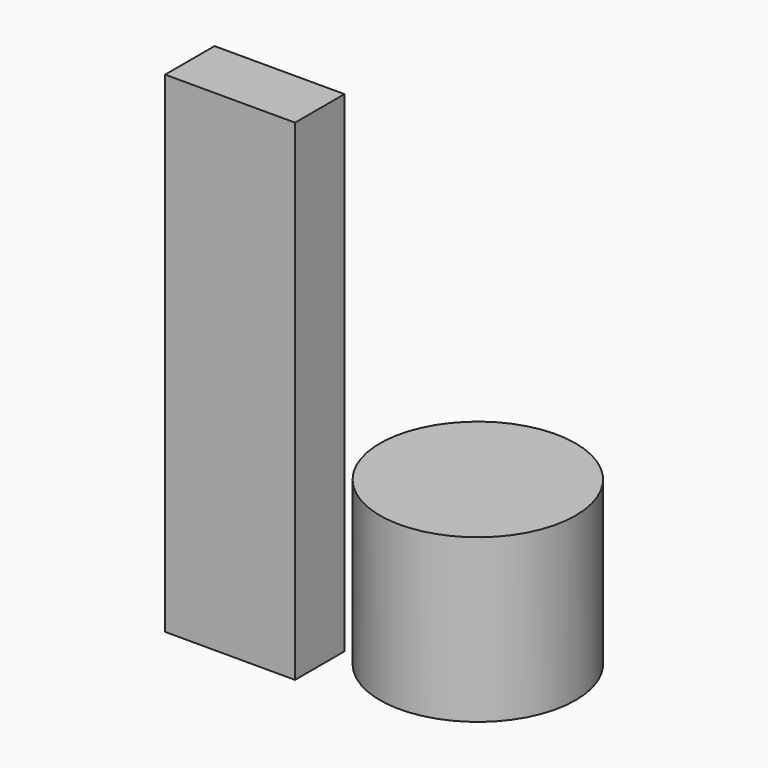
from build123d import *

# Parameters (mm, degrees)
F0_R     = 51.059326
F1_DEPTH = 84.836
F2_W     = 67.816258
F2_H     = 32.241601
F3_DEPTH = 256.032


with BuildPart() as f1:
    # F0 (on Top) → F1 (new body)
    with BuildSketch(Plane.XY):
        Circle(F0_R)
    extrude(amount=F1_DEPTH)


with BuildPart() as f3:
    # F2 (on Top) → F3 (new body)
    with BuildSketch(Plane.XY):
        with Locations((-83.344713, -41.307842)):
            Rectangle(F2_W, F2_H)
    extrude(amount=F3_DEPTH)


solid = Compound([f1.part, f3.part])
